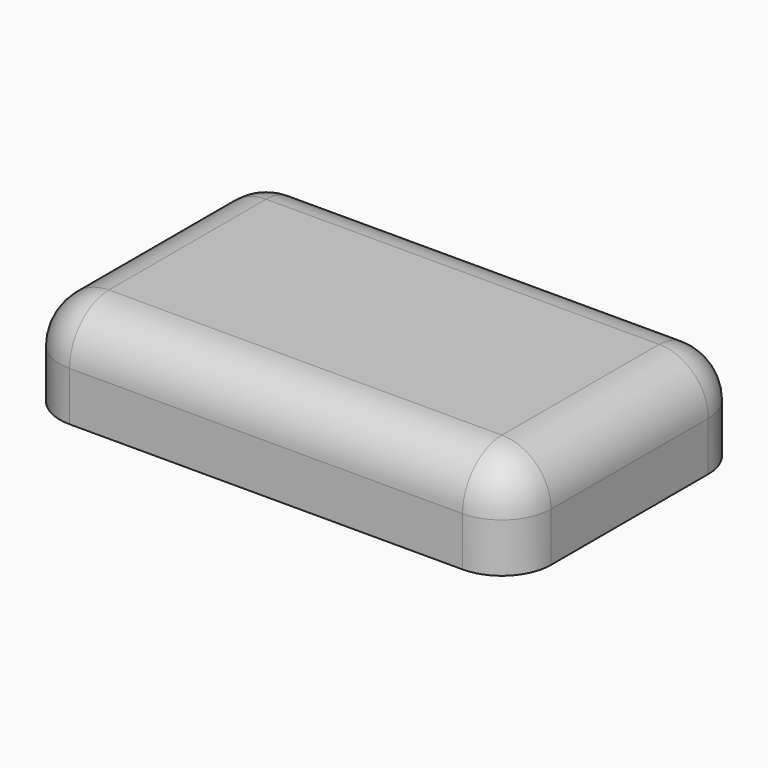
from build123d import *

# Parameters (mm, degrees)
F1_DEPTH = 10
F2_R     = 5


with BuildPart() as f1:
    # F0 (on Top) → F1 (new body)
    with BuildSketch(Plane.XY):
        with BuildLine():
            Line((-20, -15), (20, -15))
            ThreePointArc((20, -15), (23.5355339059, -13.5355339059), (25, -10))
            Line((25, -10), (25, 10))
            ThreePointArc((25, 10), (23.5355339059, 13.5355339059), (20, 15))
            Line((20, 15), (-20, 15))
            ThreePointArc((-20, 15), (-23.5355339059, 13.5355339059), (-25, 10))
            Line((-25, 10), (-25, -10))
            ThreePointArc((-25, -10), (-23.5355339059, -13.5355339059), (-20, -15))
        make_face()
    extrude(amount=F1_DEPTH)

    # F2
    f2_edges = [f1.edges().sort_by_distance(p)[0] for p in [
        (-25, 0, 10),
    ]]
    fillet(f2_edges, radius=F2_R)


solid = f1.part
